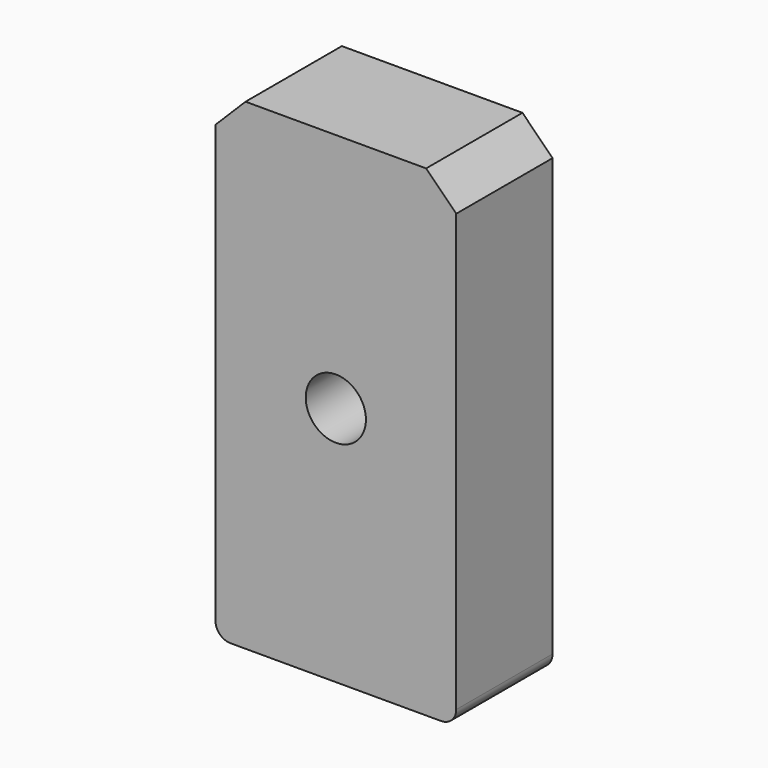
from build123d import *

# Parameters (mm, degrees)
F0_W     = 400
F0_H     = 800
F1_DEPTH = 200
F2_SIZE  = 50
F3_SIZE  = 50
F4_R     = 25
F5_R     = 25
F6_R     = 50
F7_DEPTH = 508


with BuildPart() as f1:
    # F0 (on Front) → F1 (new body)
    with BuildSketch(Plane.XZ):
        Rectangle(F0_W, F0_H)
    extrude(amount=F1_DEPTH)

    # F2
    f2_edges = [f1.edges().sort_by_distance(p)[0] for p in [
        (200, -100, 400),
    ]]
    chamfer(f2_edges, length=F2_SIZE)

    # F3
    f3_edges = [f1.edges().sort_by_distance(p)[0] for p in [
        (-200, -100, 400),
    ]]
    chamfer(f3_edges, length=F3_SIZE)

    # F4
    f4_edges = [f1.edges().sort_by_distance(p)[0] for p in [
        (-200, -100, -400),
    ]]
    fillet(f4_edges, radius=F4_R)

    # F5
    f5_edges = [f1.edges().sort_by_distance(p)[0] for p in [
        (200, -100, -400),
    ]]
    fillet(f5_edges, radius=F5_R)

    # F6 (on face) → F7 (cut)
    with BuildSketch(Plane.XZ.offset(200)):
        Circle(F6_R)
        Circle(F6_R)
    extrude(amount=-F7_DEPTH, mode=Mode.SUBTRACT)


solid = f1.part
